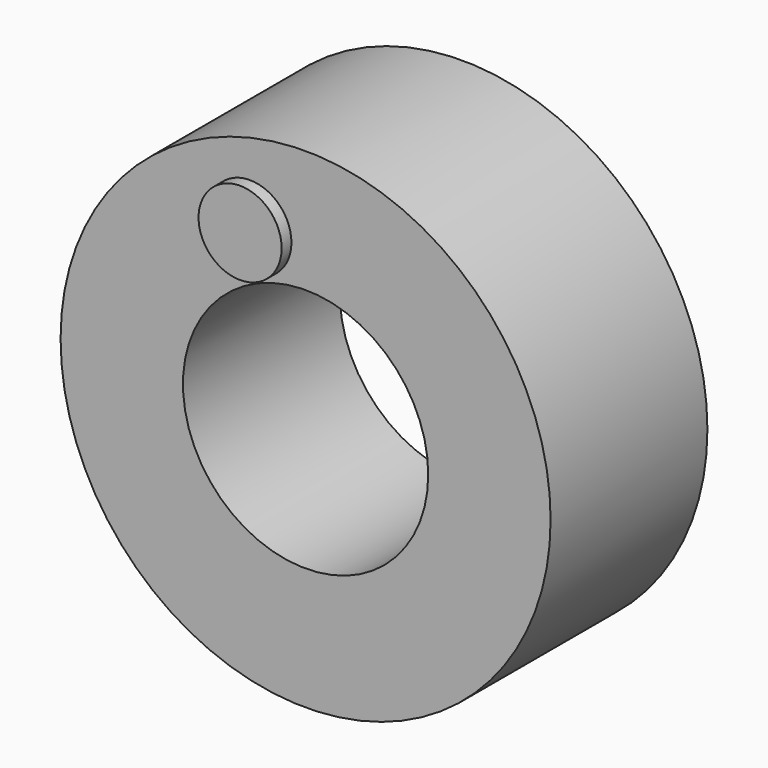
from build123d import *

# Parameters (mm, degrees)
F0_R     = 10
F0_R_2   = 5.005
F1_DEPTH = 8
F2_R     = 1.695449
F3_DEPTH = 0.5


with BuildPart() as f1:
    # F0 (on Front) → F1 (new body)
    with BuildSketch(Plane.XZ):
        Circle(F0_R)
        Circle(F0_R_2, mode=Mode.SUBTRACT)
    extrude(amount=F1_DEPTH)

    # F2 (on face) → F3 (join)
    with BuildSketch(Plane.XZ.offset(8)):
        with Locations((-2.273355, 6.519597)):
            Circle(F2_R)
    extrude(amount=F3_DEPTH)


solid = f1.part
